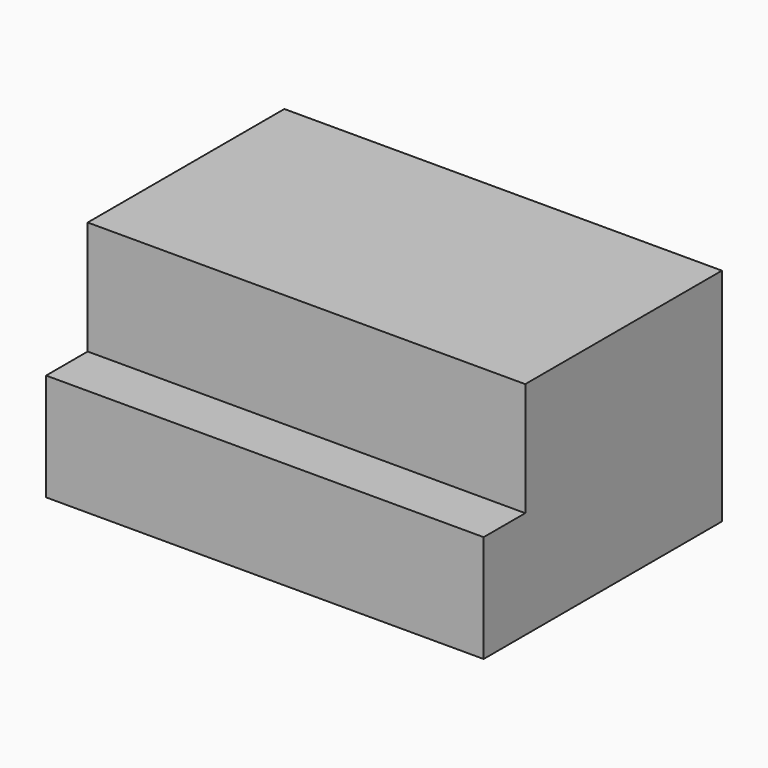
from build123d import *

# Parameters (mm, degrees)
F0_W      = 69.343508
F0_H      = 47.200218
F1_DEPTH  = 5
F1_FACE_W = 69.343508
F1_FACE_H = 47.200218
F2_DEPTH  = 5
F3_W      = 69.343508
F3_H      = 8.242194
F5_DEPTH  = 7
F4_W      = 69.343508
F4_H      = 38.958024
F6_W      = 69.343508
F6_H      = 38.958024
F7_DEPTH  = 25


with BuildPart() as f1:
    # F0 (on Top) → F1 (new body)
    with BuildSketch(Plane.XY):
        Rectangle(F0_W, F0_H)
    extrude(amount=F1_DEPTH)

    # F1_face (on face) → F2 (join)
    with BuildSketch(Plane(origin=(0, 0, 0), x_dir=(1, 0, 0), z_dir=(0, 0, -1))):
        Rectangle(F1_FACE_W, F1_FACE_H)
    extrude(amount=F2_DEPTH)

    # F3 (on face) → F5 (join)
    with BuildSketch(Plane.XY.offset(5)):
        with Locations((0, -19.479012)):
            Rectangle(F3_W, F3_H)
    extrude(amount=F5_DEPTH)

    # F4 (on face) + F6 (on face) → F7 (join)
    with BuildSketch(Plane.XY.offset(5)):
        with Locations((0, 4.121097)):
            Rectangle(F4_W, F4_H)
    with BuildSketch(Plane.XY.offset(5)):
        with Locations((0, 4.121097)):
            Rectangle(F6_W, F6_H)
    extrude(amount=F7_DEPTH)


solid = f1.part
